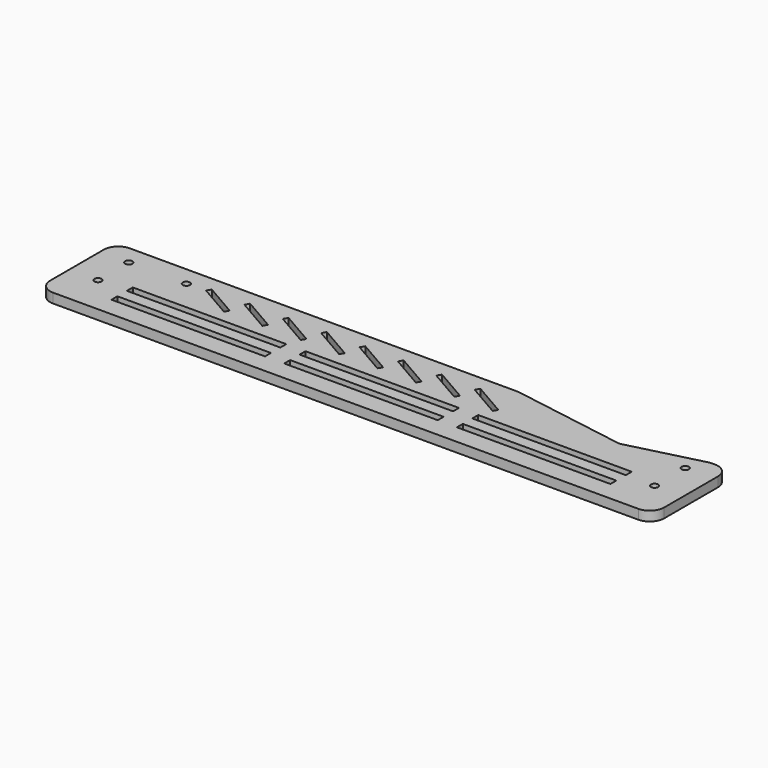
from build123d import *

# Parameters (mm, degrees)
F1_DEPTH = 12.7
F2_R     = 4.7625
F3_DEPTH = 12.701
F4_W     = 203.2
F4_H     = 9.79558
F5_DEPTH = 12.701
F7_DEPTH = 12.701


with BuildPart() as f1:
    # F0 (on Top) → F1 (new body)
    with BuildSketch(Plane.XY):
        with BuildLine():
            Line((208.057067, 25.4), (-305.252269, 25.4))
            ThreePointArc((-305.252269, 25.4), (-318.722653, 19.820384), (-324.302269, 6.35))
            Line((-324.302269, 6.35), (-324.302269, -82.55))
            ThreePointArc((-324.302269, -82.55), (-318.722653, -96.020384), (-305.252269, -101.6))
            Line((-305.252269, -101.6), (469.447731, -101.6))
            ThreePointArc((469.447731, -101.6), (482.918115, -96.020384), (488.497731, -82.55))
            Line((488.497731, -82.55), (488.497731, 6.35))
            ThreePointArc((488.497731, 6.35), (482.918115, 19.820384), (469.447731, 25.4))
            Line((469.447731, 25.4), (464.684607, 25.4))
            ThreePointArc((464.684607, 25.4), (463.109975, 25.302005), (461.559644, 25.009533))
            Line((461.559644, 25.009533), (365.61775, 0.653221))
            ThreePointArc((365.61775, 0.653221), (363.032974, 0.274247), (360.425341, 0.432165))
            Line((360.425341, 0.432165), (210.124513, 25.230589))
            ThreePointArc((210.124513, 25.230589), (209.094255, 25.357576), (208.057067, 25.4))
        make_face()
    extrude(amount=F1_DEPTH)

    # F2 (on face) → F3 (cut, through all)
    with BuildSketch(Plane.XY.offset(12.7)):
        with Locations((-286.202269, 0)):
            Circle(F2_R)
        with Locations((-286.202269, -50.8)):
            Circle(F2_R)
        with Locations((-210.002269, 0)):
            Circle(F2_R)
        with Locations((450.397731, 0)):
            Circle(F2_R)
        with Locations((450.397731, -50.8)):
            Circle(F2_R)
    extrude(amount=-F3_DEPTH, mode=Mode.SUBTRACT)

    # F4 (on face) → F5 (cut, through all)
    with BuildSketch(Plane.XY.offset(12.7)):
        with Locations((310.697731, -71.30221)):
            Rectangle(F4_W, F4_H)
        with Locations((310.697731, -45.90221)):
            Rectangle(F4_W, F4_H)
        with Locations((82.097731, -45.90221)):
            Rectangle(F4_W, F4_H)
        with Locations((82.097731, -71.30221)):
            Rectangle(F4_W, F4_H)
        with Locations((-146.502269, -71.30221)):
            Rectangle(F4_W, F4_H)
        with Locations((-146.502269, -45.90221)):
            Rectangle(F4_W, F4_H)
    extrude(amount=-F5_DEPTH, mode=Mode.SUBTRACT)

    # F6 (on face) → F7 (cut, through all)
    with BuildSketch(Plane.XY.offset(12.7)):
        Polygon((-137.433179, -19.05), (-181.427269, 6.35), (-184.602269, 0.850739), (-140.608179, -24.549261), align=None)
        Polygon((-86.633179, -19.05), (-130.627269, 6.35), (-133.802269, 0.850739), (-89.808179, -24.549261), align=None)
        Polygon((-35.833179, -19.05), (-79.827269, 6.35), (-83.002269, 0.850739), (-39.008179, -24.549261), align=None)
        Polygon((14.966821, -19.05), (-29.027269, 6.35), (-32.202269, 0.850739), (11.791821, -24.549261), align=None)
        Polygon((65.766821, -19.05), (21.772731, 6.35), (18.597731, 0.850739), (62.591821, -24.549261), align=None)
        Polygon((116.566821, -19.05), (72.572731, 6.35), (69.397731, 0.850739), (113.391821, -24.549261), align=None)
        Polygon((167.366821, -19.05), (123.372731, 6.35), (120.197731, 0.850739), (164.191821, -24.549261), align=None)
        Polygon((218.166821, -19.05), (174.172731, 6.35), (170.997731, 0.850739), (214.991821, -24.549261), align=None)
    extrude(amount=-F7_DEPTH, mode=Mode.SUBTRACT)


solid = f1.part
